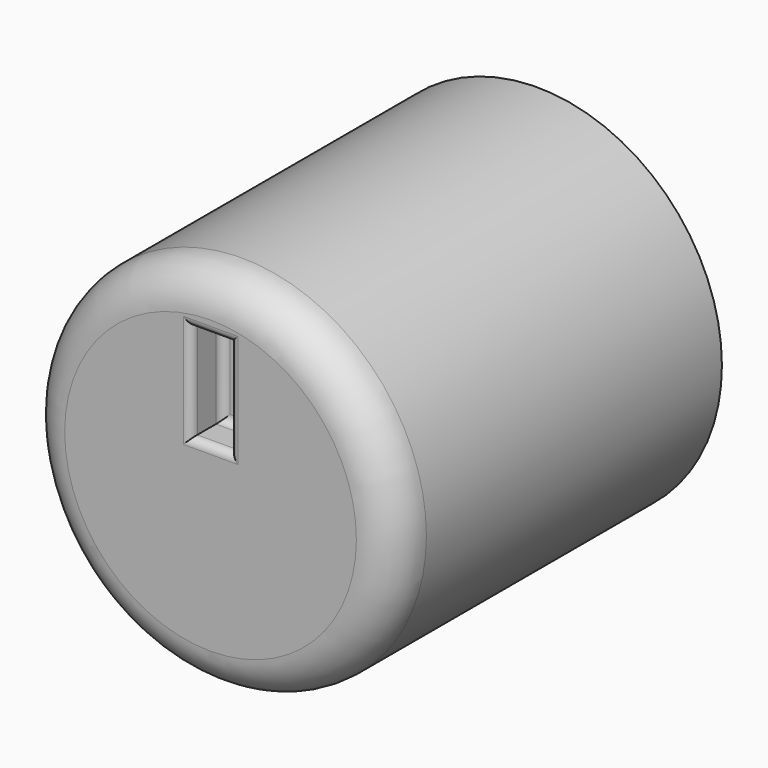
from build123d import *

# Parameters (mm, degrees)
F0_R     = 4.75
F0_R_2   = 3.6
F1_DEPTH = 10.5
F2_DEPTH = 2
F3_DEPTH = 7.5
F4_W     = 1
F4_H     = 2.5
F5_DEPTH = 1
F6_R     = 0.2
F7_R     = 1


with BuildPart() as f1:
    # F0 (on Front) → F1 (new body)
    with BuildSketch(Plane.XZ):
        Circle(F0_R)
        Circle(F0_R_2, mode=Mode.SUBTRACT)
        Circle(F0_R_2)
        with BuildLine():
            ThreePointArc((-1.8761663039, -1.05), (-0.5425598799, 2.0804155298), (2.15, 0))
            ThreePointArc((2.15, 0), (2.0804155298, -0.5425598799), (1.8761663039, -1.05))
            ThreePointArc((1.8761663039, -1.05), (0, -2.15), (-1.8761663039, -1.05))
        make_face(mode=Mode.SUBTRACT)
        with BuildLine():
            ThreePointArc((1.8761663039, -1.05), (2.0804155298, -0.5425598799), (2.15, 0))
            ThreePointArc((2.15, 0), (-0.5425598799, 2.0804155298), (-1.8761663039, -1.05))
            Line((-1.8761663039, -1.05), (1.8761663039, -1.05))
        make_face()
        with BuildLine():
            Line((1.8761663039, -1.05), (-1.8761663039, -1.05))
            ThreePointArc((-1.8761663039, -1.05), (0, -2.15), (1.8761663039, -1.05))
        make_face()
    extrude(amount=F1_DEPTH)

    # F0 (on Front) → F2 (cut)
    with BuildSketch(Plane.XZ):
        Circle(F0_R_2)
        with BuildLine():
            ThreePointArc((-1.8761663039, -1.05), (-0.5425598799, 2.0804155298), (2.15, 0))
            ThreePointArc((2.15, 0), (2.0804155298, -0.5425598799), (1.8761663039, -1.05))
            ThreePointArc((1.8761663039, -1.05), (0, -2.15), (-1.8761663039, -1.05))
        make_face(mode=Mode.SUBTRACT)
        with BuildLine():
            ThreePointArc((1.8761663039, -1.05), (2.0804155298, -0.5425598799), (2.15, 0))
            ThreePointArc((2.15, 0), (-0.5425598799, 2.0804155298), (-1.8761663039, -1.05))
            Line((-1.8761663039, -1.05), (1.8761663039, -1.05))
        make_face()
        with BuildLine():
            Line((1.8761663039, -1.05), (-1.8761663039, -1.05))
            ThreePointArc((-1.8761663039, -1.05), (0, -2.15), (1.8761663039, -1.05))
        make_face()
    extrude(amount=F2_DEPTH, mode=Mode.SUBTRACT)

    # F0 (on Front) → F3 (cut)
    with BuildSketch(Plane.XZ):
        with BuildLine():
            ThreePointArc((1.8761663039, -1.05), (2.0804155298, -0.5425598799), (2.15, 0))
            ThreePointArc((2.15, 0), (-0.5425598799, 2.0804155298), (-1.8761663039, -1.05))
            Line((-1.8761663039, -1.05), (1.8761663039, -1.05))
        make_face()
    extrude(amount=F3_DEPTH, mode=Mode.SUBTRACT)

    # F4 (on face) → F5 (cut)
    with BuildSketch(Plane.XZ.offset(10.5)):
        with Locations((0, 2.1555542984)):
            Rectangle(F4_W, F4_H)
    extrude(amount=-F5_DEPTH, mode=Mode.SUBTRACT)

    # F6
    f6_edges = [f1.edges().sort_by_distance(p)[0] for p in [
        (-0.5, -10.5, 2.155554),
        (0, -10.5, 3.405554),
        (0.5, -10.5, 2.155554),
        (0, -10.5, 0.905554),
        (0, -9.5, 3.405554),
        (0.5, -9.5, 2.155554),
        (-0.5, -9.5, 2.155554),
        (0, -9.5, 0.905554),
    ]]
    fillet(f6_edges, radius=F6_R)

    # F7
    f7_edges = [f1.edges().sort_by_distance(p)[0] for p in [
        (-4.75, -10.5, 0),
    ]]
    fillet(f7_edges, radius=F7_R)


solid = f1.part
